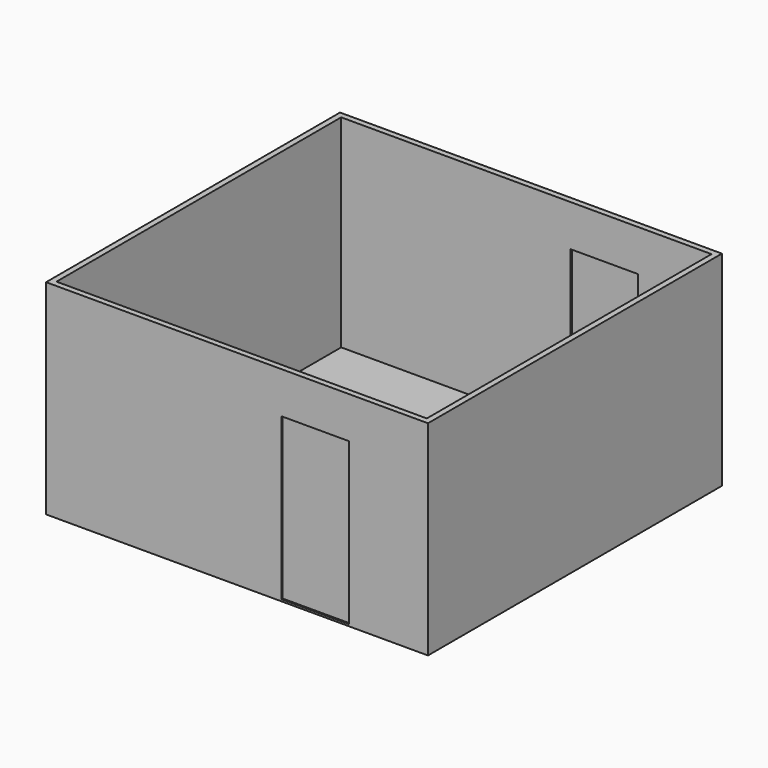
from build123d import *

# Parameters (mm, degrees)
F0_W     = 4876.8
F0_H     = 4686.3
F1_DEPTH = 25.4
F2_W     = 5029.2
F2_H     = 4838.7
F2_W_2   = 4876.8
F2_H_2   = 4686.3
F3_DEPTH = 2667
F4_W     = 889
F4_H     = 2120.9
F5_DEPTH = 4838.701
F6_W     = 5029.2
F6_H     = 4838.7
F6_W_2   = 4876.8
F6_H_2   = 4686.3
F7_DEPTH = 25.4
F8_W     = 889
F8_H     = 38.1
F9_DEPTH = 2120.9


with BuildPart() as f1:
    # F0 (on Top) → F1 (new body)
    with BuildSketch(Plane.XY):
        Rectangle(F0_W, F0_H)
    extrude(amount=F1_DEPTH)



with BuildPart() as f3:
    # F2 (on face) → F3 (new body)
    with BuildSketch(Plane.XY.offset(25.4)):
        Rectangle(F2_W, F2_H)
        Rectangle(F2_W_2, F2_H_2, mode=Mode.SUBTRACT)
    extrude(amount=F3_DEPTH)

    # F4 (on face) → F5 (cut, through all)
    with BuildSketch(Plane.XZ.offset(2419.35)):
        with Locations((1028.7, 1085.85)):
            Rectangle(F4_W, F4_H)
    extrude(amount=-F5_DEPTH, mode=Mode.SUBTRACT)


with BuildPart() as f1_1:
    add(f1.part)

    add(f3.part)  # F7 merges F3
    # F6 (on face) → F7 (join)
    with BuildSketch(Plane(origin=(0, 0, 0), x_dir=(1, 0, 0), z_dir=(0, 0, -1))):
        Rectangle(F6_W, F6_H)
        Rectangle(F6_W_2, F6_H_2, mode=Mode.SUBTRACT)
    extrude(amount=-F7_DEPTH)


with BuildPart() as f9:
    # F8 (on face) → F9 (new body)
    with BuildSketch(Plane.XY.offset(25.4)):
        with Locations((1028.7, -2381.25)):
            Rectangle(F8_W, F8_H)
    extrude(amount=F9_DEPTH)


with BuildPart() as f9b:
    # F8 (on face) → F9, piece 2 (new body)
    with BuildSketch(Plane.XY.offset(25.4)):
        with Locations((1028.7, 2381.25)):
            Rectangle(F8_W, F8_H)
    extrude(amount=F9_DEPTH)


solid = Compound([f1_1.part, f9.part, f9b.part])
